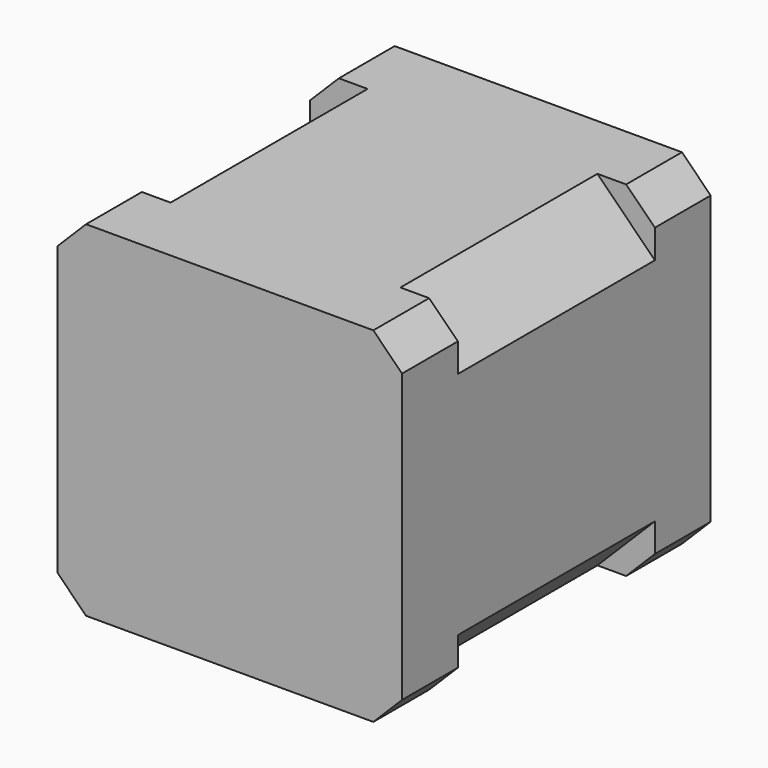
from build123d import *

# Parameters (mm, degrees)
BOX013_W        = 42
BOX013_H        = 8.5
BOX013_DEPTH    = 42
CHAMFER001_SIZE = 3.5
BOX_W           = 42
BOX_H           = 30
BOX_DEPTH       = 42
CHAMFER002_SIZE = 7
BOX012_W        = 42
BOX012_H        = 8.5
BOX012_DEPTH    = 42
CHAMFER_SIZE    = 3.5


with BuildPart() as chamfer001:
    # Box013 → Box013 (new body)
    with BuildSketch(Plane(origin=(7, 43.5, 2.5), x_dir=(1, 0, 0), z_dir=(0, 0, 1))):
        with Locations((21, 4.25)):
            Rectangle(BOX013_W, BOX013_H)
    extrude(amount=BOX013_DEPTH)

    # Chamfer001
    chamfer001_edges = [chamfer001.edges().sort_by_distance(p)[0] for p in [
        (7, 47.75, 44.5),
        (7, 47.75, 2.5),
        (49, 47.75, 44.5),
        (49, 47.75, 2.5),
    ]]
    chamfer(chamfer001_edges, length=CHAMFER001_SIZE)


with BuildPart() as chamfer002:
    # Box → Box (new body)
    with BuildSketch(Plane(origin=(7, 13.5, 2.5), x_dir=(1, 0, 0), z_dir=(0, 0, 1))):
        with Locations((21, 15)):
            Rectangle(BOX_W, BOX_H)
    extrude(amount=BOX_DEPTH)

    # Chamfer002
    chamfer002_edges = [chamfer002.edges().sort_by_distance(p)[0] for p in [
        (7, 28.5, 44.5),
        (7, 28.5, 2.5),
        (49, 28.5, 44.5),
        (49, 28.5, 2.5),
    ]]
    chamfer(chamfer002_edges, length=CHAMFER002_SIZE)


with BuildPart() as do_not_print_nema17_dummy:
    # Box012 → Box012 (new body)
    with BuildSketch(Plane(origin=(7, 5, 2.5), x_dir=(1, 0, 0), z_dir=(0, 0, 1))):
        with Locations((21, 4.25)):
            Rectangle(BOX012_W, BOX012_H)
    extrude(amount=BOX012_DEPTH)

    # Chamfer
    chamfer_edges = [do_not_print_nema17_dummy.edges().sort_by_distance(p)[0] for p in [
        (7, 9.25, 44.5),
        (7, 9.25, 2.5),
        (49, 9.25, 44.5),
        (49, 9.25, 2.5),
    ]]
    chamfer(chamfer_edges, length=CHAMFER_SIZE)

    # Fusion: union Chamfer001, Chamfer002
    add(chamfer001.part)
    add(chamfer002.part)


solid = do_not_print_nema17_dummy.part
